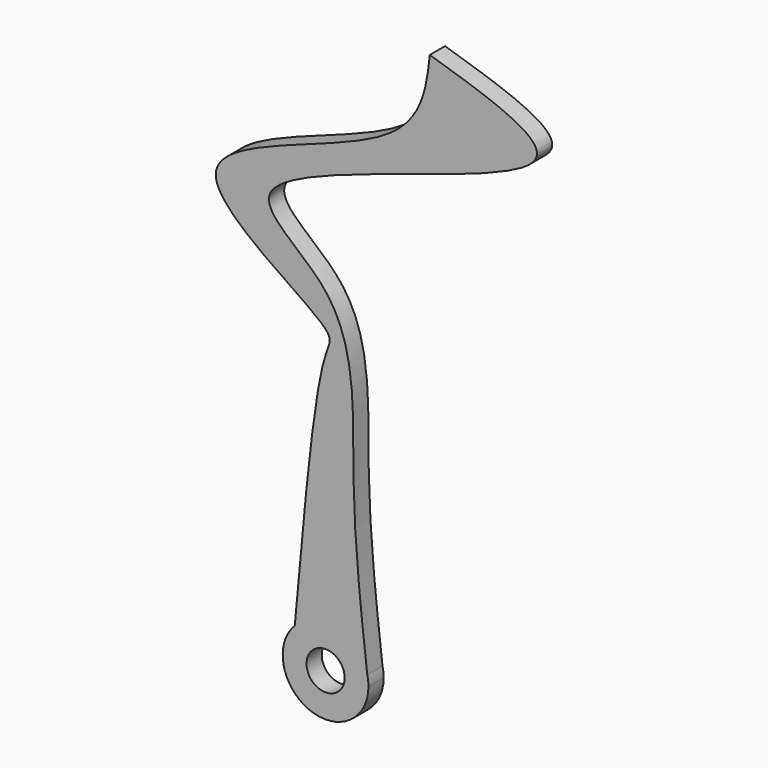
from build123d import *

# Parameters (mm, degrees)
F0_R     = 2
F1_DEPTH = 2


with BuildPart() as f1:
    # F0 (on Front) → F1 (new body)
    with BuildSketch(Plane.XZ):
        with BuildLine():
            add(Edge.make_bspline(
                [(-3.2342046806, 3.1288847988), (-2.2317880723, 14.3400494703), (-0.9332200343, 28.9019612165), (1.7599360211, 31.8004770558), (-22.4833448482, 44.2528397068), (9.727812994, 49.5917757047), (10.5883174377, 57.3053319675), (10.9415370971, 60.4715421796)],
                knots=[0, 0, 0, 0, 0.2806573581, 0.364485977, 0.5809051602, 0.8279689466, 1, 1, 1, 1], degree=3))
            ThreePointArc((-3.2342046806, 3.1288847988), (-1.6876135425, -4.171565717), (4.5, 0))
            add(Edge.make_bspline(
                [(4.5, 0), (4.4587512987, 0.3491840144), (4.4175025975, 0.6983680287), (4.3763664015, 1.0475767845)],
                knots=[0, 0, 0, 0, 0.0118850286, 0.0118850286, 0.0118850286, 0.0118850286], degree=3))
            add(Edge.make_bspline(
                [(4.3763664015, 1.0475767845), (3.6826417241, 6.9366660846), (2.3667094229, 18.6618721572), (3.6646686907, 35.458481949), (-15.4276184435, 44.0331851641), (33.4948952427, 53.4577083165), (17.3100845148, 58.4909974976), (10.9415370971, 60.4715421796)],
                knots=[0.0118850286, 0.0118850286, 0.0118850286, 0.0118850286, 0.2123152689, 0.4104664012, 0.559639199, 0.8267228027, 1, 1, 1, 1], degree=3))
        make_face()
        Circle(F0_R, mode=Mode.SUBTRACT)
        with BuildLine():
            add(Edge.make_bspline(
                [(4.5, 0), (4.4587512987, 0.3491840144), (4.4175025975, 0.6983680287), (4.3763664015, 1.0475767845)],
                knots=[0, 0, 0, 0, 0.0118850286, 0.0118850286, 0.0118850286, 0.0118850286], degree=3))
            ThreePointArc((4.5, 0), (4.4689847173, 0.5274235457), (4.3763664015, 1.0475767845))
        make_face()
    extrude(amount=F1_DEPTH)


solid = f1.part
